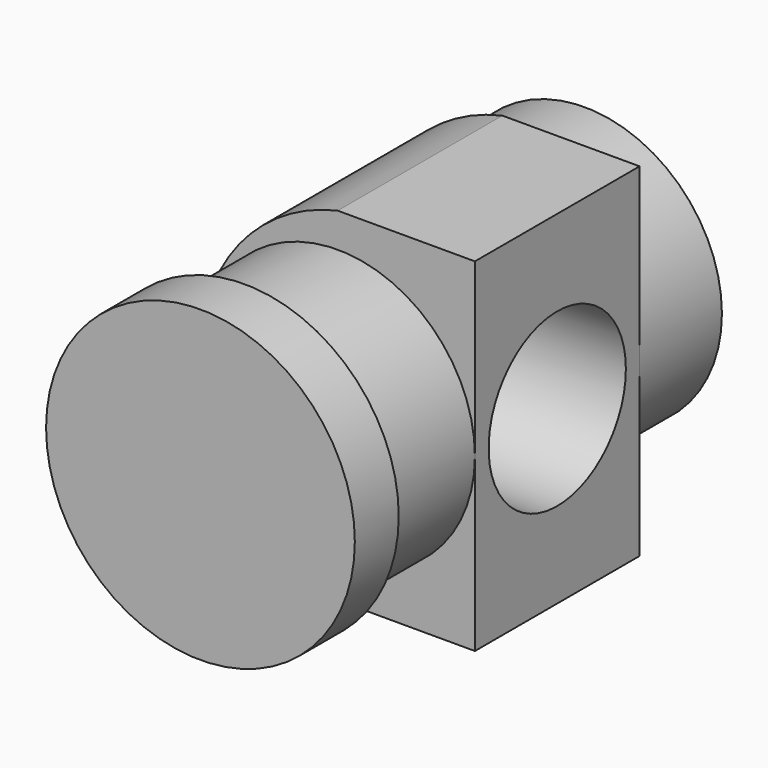
from build123d import *

# Parameters (mm, degrees)
F0_R      = 20
F1_DEPTH  = 70
F3_W      = 40
F3_H      = 50
F4_DEPTH  = 30
F5_R      = 12.5
F6_DEPTH  = 20
F8_DEPTH  = 30
F9_R      = 22.5
F10_DEPTH = 8


with BuildPart() as f1:
    # F0 (on Front) → F1 (new body)
    with BuildSketch(Plane.XZ):
        Circle(F0_R)
    extrude(amount=F1_DEPTH)

    # F3 (on offset) → F4 (join)
    with BuildSketch(Plane.XZ.offset(15)):
        Rectangle(F3_W, F3_H)
    extrude(amount=F4_DEPTH)

    # F5 (on face) → F6 (cut)
    with BuildSketch(Plane.YZ.offset(20)):
        with Locations((-30, 0)):
            Circle(F5_R)
    extrude(amount=-F6_DEPTH, mode=Mode.SUBTRACT)

    # F7 (on face) → F8 (cut, through all)
    with BuildSketch(Plane.XZ.offset(45)):
        with BuildLine():
            ThreePointArc((0, -25), (-14.384763, -16.007811), (-20, 0))
            Line((-20, 0), (-20, -25))
            Line((-20, -25), (0, -25))
        make_face()
        with BuildLine():
            ThreePointArc((-20, 0), (-14.384763, 16.007811), (0, 25))
            Line((0, 25), (-20, 25))
            Line((-20, 25), (-20, 0))
        make_face()
    extrude(amount=-F8_DEPTH, mode=Mode.SUBTRACT)

    # F9 (on face) → F10 (join)
    with BuildSketch(Plane.XZ.offset(70)):
        Circle(F9_R)
    extrude(amount=-F10_DEPTH)


solid = f1.part
